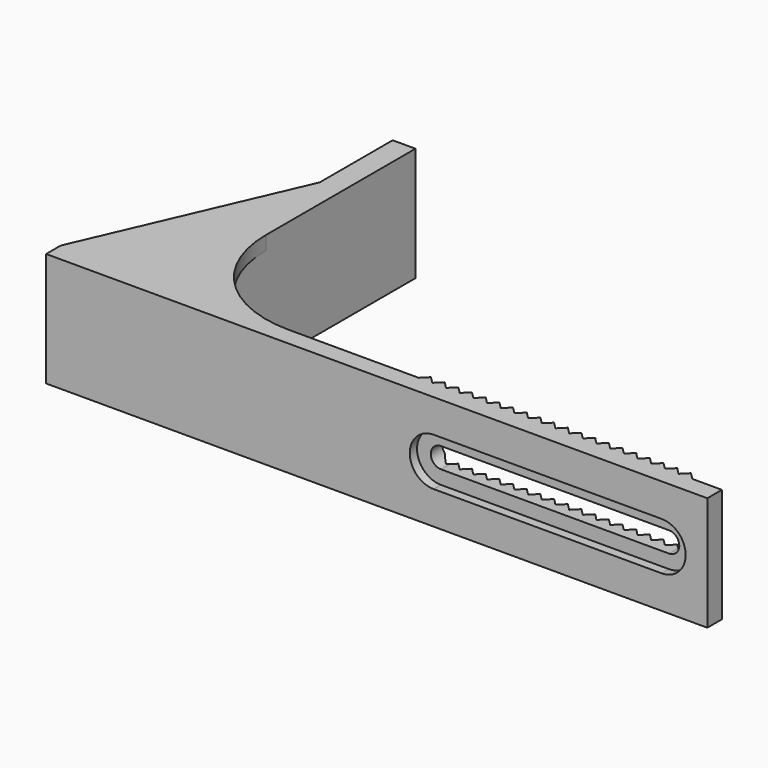
from build123d import *

# Parameters (mm, degrees)
F1_DEPTH = 25
F3_DEPTH = 70.001
F5_DEPTH = 2
F6_W     = 46
F6_H     = 19
F7_DEPTH = 20
F8_W     = 25
F8_H     = 19
F9_DEPTH = 66


with BuildPart() as f1:
    # F0 (on Top) → F1 (new body)
    with BuildSketch(Plane.XY):
        with BuildLine():
            Line((53.5, 0), (25, 0))
            ThreePointArc((25, 0), (7.32233, 7.32233), (0, 25))
            Line((0, 25), (0, 66))
            Line((0, 66), (-5, 66))
            Line((-5, 66), (-5, 46))
            Line((-5, 46), (-25, 0))
            Line((-25, 0), (-25, -4))
            Line((-25, -4), (120, -4))
            Line((120, -4), (120, 0))
            Line((120, 0), (113.5, 0))
            Line((113.5, 0), (112, 1.5))
            Line((112, 1.5), (110.5, 0))
            Line((110.5, 0), (109, 1.5))
            Line((109, 1.5), (107.5, 0))
            Line((107.5, 0), (106, 1.5))
            Line((106, 1.5), (104.5, 0))
            Line((104.5, 0), (103, 1.5))
            Line((103, 1.5), (101.5, 0))
            Line((101.5, 0), (100, 1.5))
            Line((100, 1.5), (98.5, 0))
            Line((98.5, 0), (97, 1.5))
            Line((97, 1.5), (95.5, 0))
            Line((95.5, 0), (94, 1.5))
            Line((94, 1.5), (92.5, 0))
            Line((92.5, 0), (91, 1.5))
            Line((91, 1.5), (89.5, 0))
            Line((89.5, 0), (88, 1.5))
            Line((88, 1.5), (86.5, 0))
            Line((86.5, 0), (85, 1.5))
            Line((85, 1.5), (83.5, 0))
            Line((83.5, 0), (82, 1.5))
            Line((82, 1.5), (80.5, 0))
            Line((80.5, 0), (79, 1.5))
            Line((79, 1.5), (77.5, 0))
            Line((77.5, 0), (76, 1.5))
            Line((76, 1.5), (74.5, 0))
            Line((74.5, 0), (73, 1.5))
            Line((73, 1.5), (71.5, 0))
            Line((71.5, 0), (70, 1.5))
            Line((70, 1.5), (68.5, 0))
            Line((68.5, 0), (67, 1.5))
            Line((67, 1.5), (65.5, 0))
            Line((65.5, 0), (64, 1.5))
            Line((64, 1.5), (62.5, 0))
            Line((62.5, 0), (61, 1.5))
            Line((61, 1.5), (59.5, 0))
            Line((59.5, 0), (58, 1.5))
            Line((58, 1.5), (56.5, 0))
            Line((56.5, 0), (55, 1.5))
            Line((55, 1.5), (53.5, 0))
        make_face()
    extrude(amount=F1_DEPTH)

    # F2 (on face) → F3 (cut, through all)
    with BuildSketch(Plane.XZ.offset(4)):
        with BuildLine():
            Line((60, 10.25), (110, 10.25))
            ThreePointArc((110, 10.25), (112.25, 12.5), (110, 14.75))
            Line((110, 14.75), (60, 14.75))
            ThreePointArc((60, 14.75), (57.75, 12.5), (60, 10.25))
        make_face()
    extrude(amount=-F3_DEPTH, mode=Mode.SUBTRACT)

    # F4 (on face) → F5 (cut)
    with BuildSketch(Plane.XZ.offset(4)):
        with BuildLine():
            Line((110, 17.75), (60, 17.75))
            ThreePointArc((60, 17.75), (54.75, 12.5), (60, 7.25))
            Line((60, 7.25), (110, 7.25))
            ThreePointArc((110, 7.25), (115.25, 12.5), (110, 17.75))
        make_face()
    extrude(amount=-F5_DEPTH, mode=Mode.SUBTRACT)

    # F6 (on face) → F7 (cut, through all)
    with BuildSketch(Plane(origin=(-25, 0, 0), x_dir=(0, -1, 0), z_dir=(-1, 0, 0))):
        with Locations((-23, 12.5)):
            Rectangle(F6_W, F6_H)
    extrude(amount=-F7_DEPTH, mode=Mode.SUBTRACT)

    # F8 (on face) → F9 (cut, through all)
    with BuildSketch(Plane(origin=(0, 66, 0), x_dir=(-1, 0, 0), z_dir=(0, 1, 0))):
        with Locations((-12.5, 12.5)):
            Rectangle(F8_W, F8_H)
    extrude(amount=-F9_DEPTH, mode=Mode.SUBTRACT)


solid = f1.part
